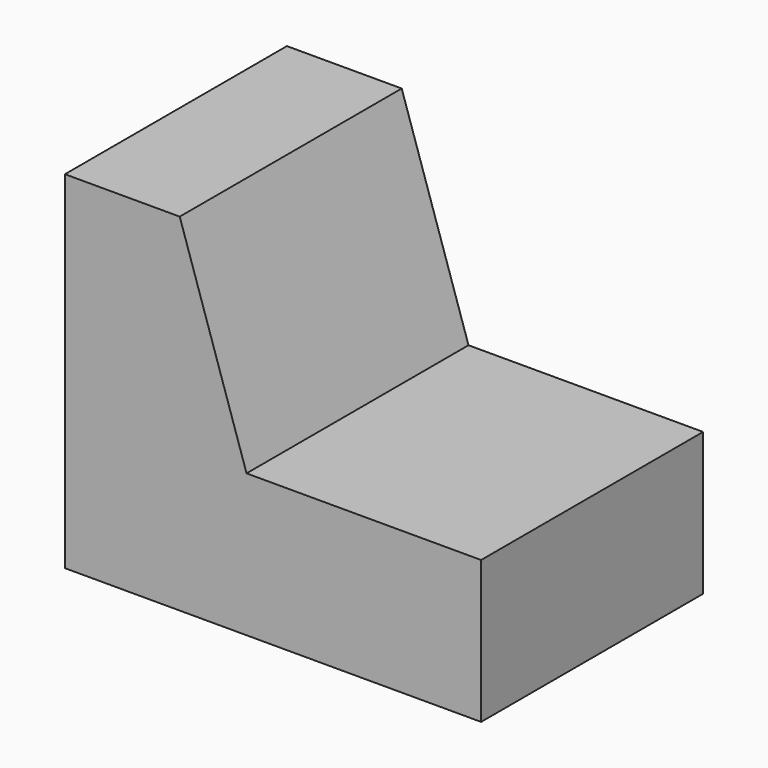
from build123d import *

# Parameters (mm, degrees)
F0_W     = 38.1
F0_H     = 31.75
F1_DEPTH = 25.4
F3_DEPTH = 25.4
F5_DEPTH = 25.401


with BuildPart() as f1:
    # F0 (on Front) → F1 (new body)
    with BuildSketch(Plane.XZ):
        with Locations((19.05, 15.875)):
            Rectangle(F0_W, F0_H)
    extrude(amount=F1_DEPTH)

    # F2 (on face) → F3 (cut)
    with BuildSketch(Plane.XZ.offset(25.4)):
        Polygon((38.1, 31.75), (21.022582, 31.75), (25.4, 18.361498), (38.1, 18.361498), align=None)
    extrude(amount=-F3_DEPTH, mode=Mode.SUBTRACT)

    # F4 (on face) → F5 (cut, through all)
    with BuildSketch(Plane.XZ.offset(25.4)):
        Polygon((21.022582, 31.75), (10.511291, 31.75), (16.625819, 13.048477), (38.1, 13.048477), (38.1, 18.361498), (25.4, 18.361498), align=None)
    extrude(amount=-F5_DEPTH, mode=Mode.SUBTRACT)


solid = f1.part
